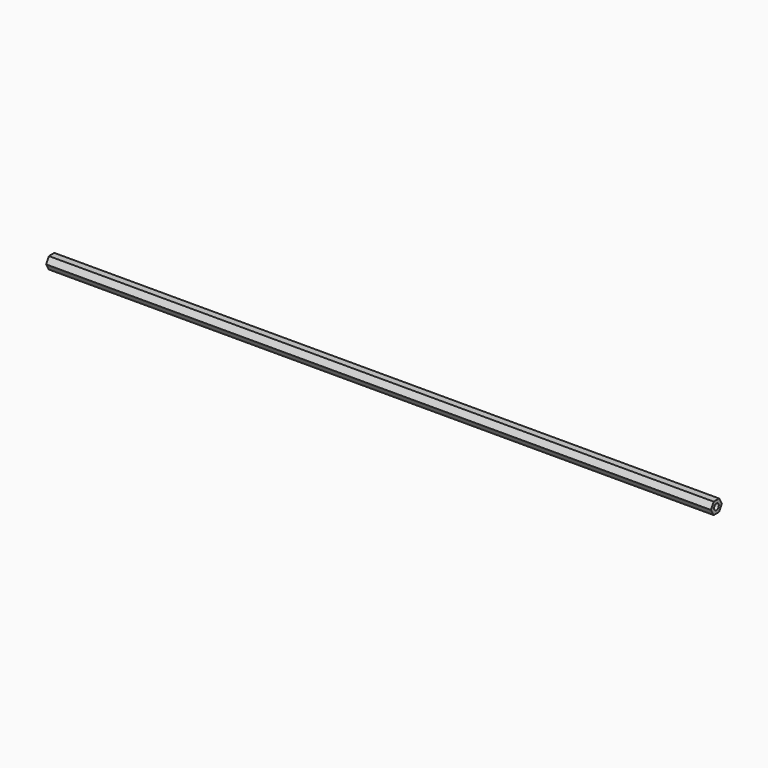
from build123d import *

# Parameters (mm, degrees)
F0_R     = 3.175
F1_DEPTH = 711.2


with BuildPart() as f1:
    # F0 (on Right) → F1 (new body)
    with BuildSketch(Plane.YZ):
        Polygon((3.666174, 6.35), (-3.666174, 6.35), (-7.332348, 0), (-3.666174, -6.35), (3.666174, -6.35), (7.332348, 0), align=None)
        Circle(F0_R, mode=Mode.SUBTRACT)
    extrude(amount=F1_DEPTH)


solid = f1.part
